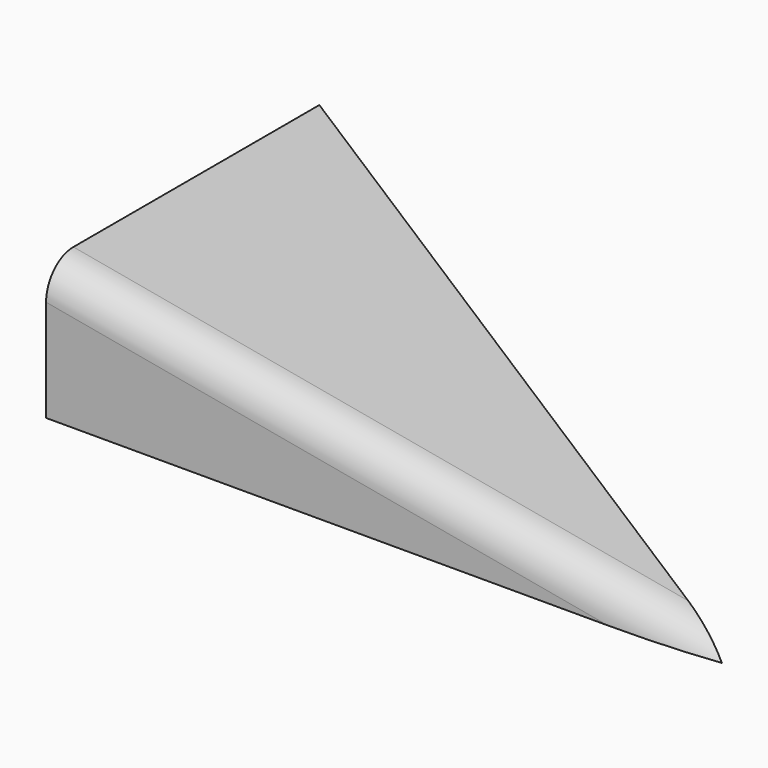
from build123d import *

# Parameters (mm, degrees)
PAD047_DEPTH    = 4
POCKET007_DEPTH = 10
FILLET_R        = 1


with BuildPart() as part:
    # Sketch069 → Pad047 (new body)
    with BuildSketch(Plane.XY):
        Polygon((0, 10), (0, 0), (20, 0), align=None)
    extrude(amount=PAD047_DEPTH)

    # Sketch070 (on Face2 of Pad047) → Pocket007 (cut)
    with BuildSketch(Plane.XZ):
        Polygon((0, 4), (22.047997, 0), (22.047997, 4), align=None)
    extrude(amount=-POCKET007_DEPTH, mode=Mode.SUBTRACT)

    # Fillet
    fillet_edges = [part.edges().sort_by_distance(p)[0] for p in [
        (10, 0, 2.185776),
    ]]
    fillet(fillet_edges, radius=FILLET_R)


solid = part.part
